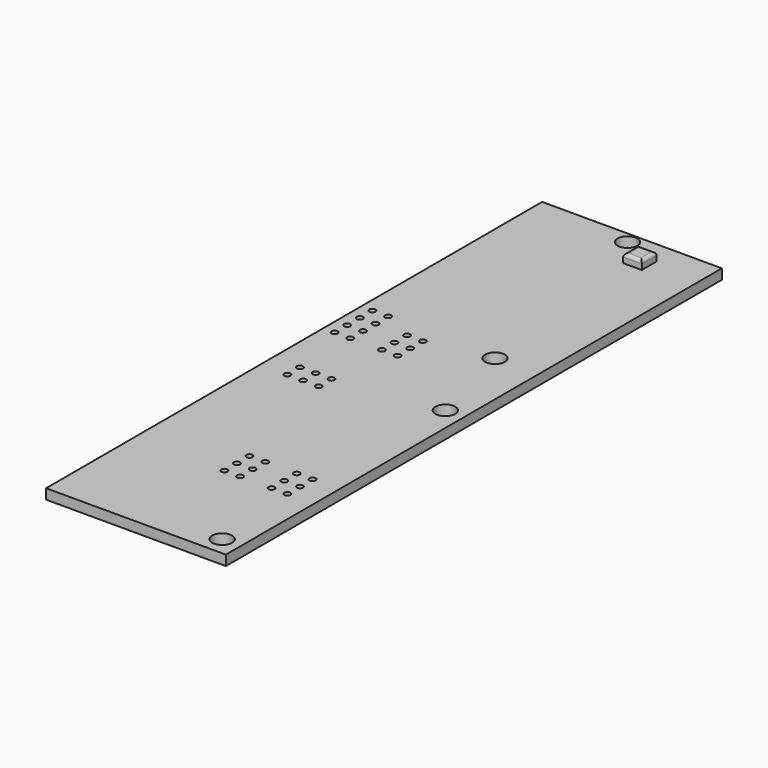
from build123d import *

# Parameters (mm, degrees)
F0_R     = 0.5
F0_R_2   = 1.6
F0_W     = 3
F0_H     = 3
F1_DEPTH = 1.63
F2_DEPTH = 3
F3_R     = 0.5


with BuildPart() as f1:
    # F0 (on Top) → F1 (new body)
    with BuildSketch(Plane.XY):
        Polygon((14.5, -50), (14.5, 50), (-14.5, 50), (-14.5, -50), (-2.65, -50), (7.25, -50), align=None)
        with Locations((-10.13, -6.82)):
            Circle(F0_R, mode=Mode.SUBTRACT)
        with Locations((-7.59, -6.82)):
            Circle(F0_R, mode=Mode.SUBTRACT)
        with Locations((-10.13, -4.28)):
            Circle(F0_R, mode=Mode.SUBTRACT)
        with Locations((-7.59, -4.28)):
            Circle(F0_R, mode=Mode.SUBTRACT)
        with Locations((-5.05, -6.82)):
            Circle(F0_R, mode=Mode.SUBTRACT)
        with Locations((-5.05, -4.28)):
            Circle(F0_R, mode=Mode.SUBTRACT)
        with Locations((0.03, -32.22)):
            Circle(F0_R, mode=Mode.SUBTRACT)
        with Locations((2.57, -32.22)):
            Circle(F0_R, mode=Mode.SUBTRACT)
        with Locations((0.03, -29.68)):
            Circle(F0_R, mode=Mode.SUBTRACT)
        with Locations((0.03, -27.14)):
            Circle(F0_R, mode=Mode.SUBTRACT)
        with Locations((2.57, -29.68)):
            Circle(F0_R, mode=Mode.SUBTRACT)
        with Locations((2.57, -27.14)):
            Circle(F0_R, mode=Mode.SUBTRACT)
        with Locations((11.5, -47)):
            Circle(F0_R_2, mode=Mode.SUBTRACT)
        with Locations((7.65, -32.22)):
            Circle(F0_R, mode=Mode.SUBTRACT)
        with Locations((10.19, -32.22)):
            Circle(F0_R, mode=Mode.SUBTRACT)
        with Locations((7.65, -29.68)):
            Circle(F0_R, mode=Mode.SUBTRACT)
        with Locations((7.65, -27.14)):
            Circle(F0_R, mode=Mode.SUBTRACT)
        with Locations((10.19, -29.68)):
            Circle(F0_R, mode=Mode.SUBTRACT)
        with Locations((10.19, -27.14)):
            Circle(F0_R, mode=Mode.SUBTRACT)
        with Locations((11.5, -2)):
            Circle(F0_R_2, mode=Mode.SUBTRACT)
        with Locations((-12.67, 5.88)):
            Circle(F0_R, mode=Mode.SUBTRACT)
        with Locations((-12.67, 8.42)):
            Circle(F0_R, mode=Mode.SUBTRACT)
        with Locations((-12.67, 10.96)):
            Circle(F0_R, mode=Mode.SUBTRACT)
        with Locations((-10.13, 5.88)):
            Circle(F0_R, mode=Mode.SUBTRACT)
        with Locations((-10.13, 8.42)):
            Circle(F0_R, mode=Mode.SUBTRACT)
        with Locations((-10.13, 10.96)):
            Circle(F0_R, mode=Mode.SUBTRACT)
        with Locations((-12.67, 13.5)):
            Circle(F0_R, mode=Mode.SUBTRACT)
        with Locations((-10.13, 13.5)):
            Circle(F0_R, mode=Mode.SUBTRACT)
        with Locations((-5.05, 5.88)):
            Circle(F0_R, mode=Mode.SUBTRACT)
        with Locations((-5.05, 8.42)):
            Circle(F0_R, mode=Mode.SUBTRACT)
        with Locations((-5.05, 10.96)):
            Circle(F0_R, mode=Mode.SUBTRACT)
        with Locations((-2.51, 5.88)):
            Circle(F0_R, mode=Mode.SUBTRACT)
        with Locations((-2.51, 8.42)):
            Circle(F0_R, mode=Mode.SUBTRACT)
        with Locations((-2.51, 10.96)):
            Circle(F0_R, mode=Mode.SUBTRACT)
        with Locations((7.5, 13)):
            Circle(F0_R_2, mode=Mode.SUBTRACT)
        with Locations((0.75, 48.15)):
            Circle(F0_R_2, mode=Mode.SUBTRACT)
        with Locations((5.41, 44.832)):
            Rectangle(F0_W, F0_H, mode=Mode.SUBTRACT)
        with Locations((5.41, 44.832)):
            Rectangle(F0_W, F0_H)
    extrude(amount=F1_DEPTH)

    # F0 (on Top) → F2 (join)
    with BuildSketch(Plane.XY):
        with Locations((5.41, 44.832)):
            Rectangle(F0_W, F0_H)
    extrude(amount=F2_DEPTH)

    # F3
    f3_edges = [f1.edges().sort_by_distance(p)[0] for p in [
        (6.91, 44.832, 3),
        (5.41, 46.332, 3),
        (3.91, 44.832, 3),
        (5.41, 43.332, 3),
    ]]
    fillet(f3_edges, radius=F3_R)


solid = f1.part
